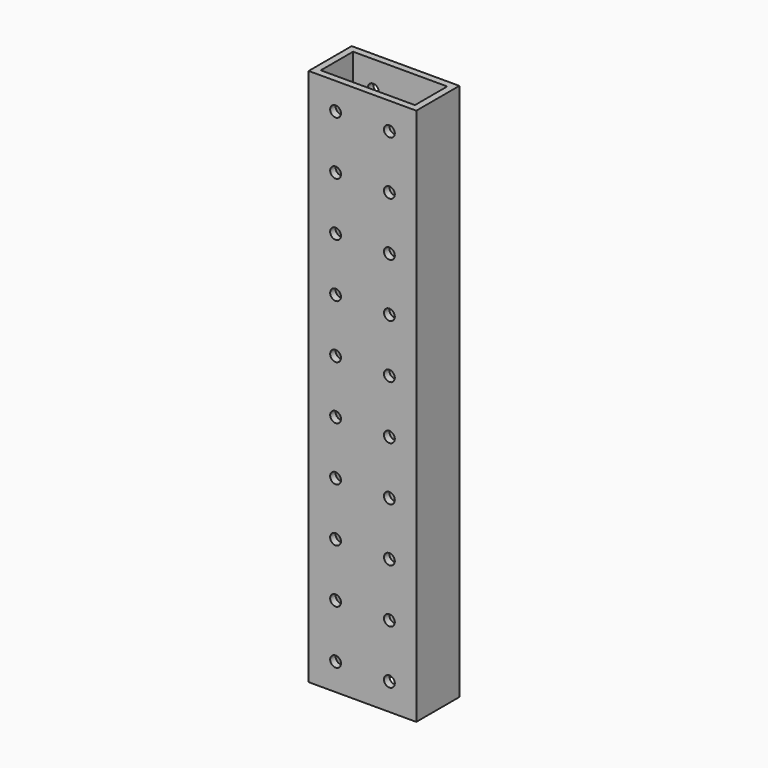
from build123d import *

# Parameters (mm, degrees)
F0_W     = 50.8
F0_H     = 25.4
F1_DEPTH = 254
F2_R     = 2.5527
F3_DEPTH = 25.4
F4_W     = 44.45
F4_H     = 19.05
F5_DEPTH = 254


with BuildPart() as f1:
    # F0 (on Top) → F1 (new body)
    with BuildSketch(Plane.XY):
        with Locations((-3.489516, 12.239771)):
            Rectangle(F0_W, F0_H)
    extrude(amount=F1_DEPTH)

    # F2 (on face) → F3 (cut)
    with BuildSketch(Plane.XZ.offset(0.460229)):
        with Locations((-16.189516, 241.3)):
            Circle(F2_R)
        with Locations((-16.189516, 215.9)):
            Circle(F2_R)
        with Locations((-16.189516, 190.5)):
            Circle(F2_R)
        with Locations((-16.189516, 165.1)):
            Circle(F2_R)
        with Locations((-16.189516, 139.7)):
            Circle(F2_R)
        with Locations((-16.189516, 114.3)):
            Circle(F2_R)
        with Locations((-16.189516, 88.9)):
            Circle(F2_R)
        with Locations((-16.189516, 63.5)):
            Circle(F2_R)
        with Locations((-16.189516, 38.1)):
            Circle(F2_R)
        with Locations((-16.189516, 12.7)):
            Circle(F2_R)
        with Locations((9.210484, 241.3)):
            Circle(F2_R)
        with Locations((9.210484, 215.9)):
            Circle(F2_R)
        with Locations((9.210484, 190.5)):
            Circle(F2_R)
        with Locations((9.210484, 165.1)):
            Circle(F2_R)
        with Locations((9.210484, 139.7)):
            Circle(F2_R)
        with Locations((9.210484, 114.3)):
            Circle(F2_R)
        with Locations((9.210484, 88.9)):
            Circle(F2_R)
        with Locations((9.210484, 63.5)):
            Circle(F2_R)
        with Locations((9.210484, 38.1)):
            Circle(F2_R)
        with Locations((9.210484, 12.7)):
            Circle(F2_R)
    extrude(amount=-F3_DEPTH, mode=Mode.SUBTRACT)

    # F4 (on face) → F5 (cut)
    with BuildSketch(Plane(origin=(0, 0, 0), x_dir=(1, 0, 0), z_dir=(0, 0, -1))):
        with Locations((-3.489516, -12.239771)):
            Rectangle(F4_W, F4_H)
    extrude(amount=-F5_DEPTH, mode=Mode.SUBTRACT)


solid = f1.part
